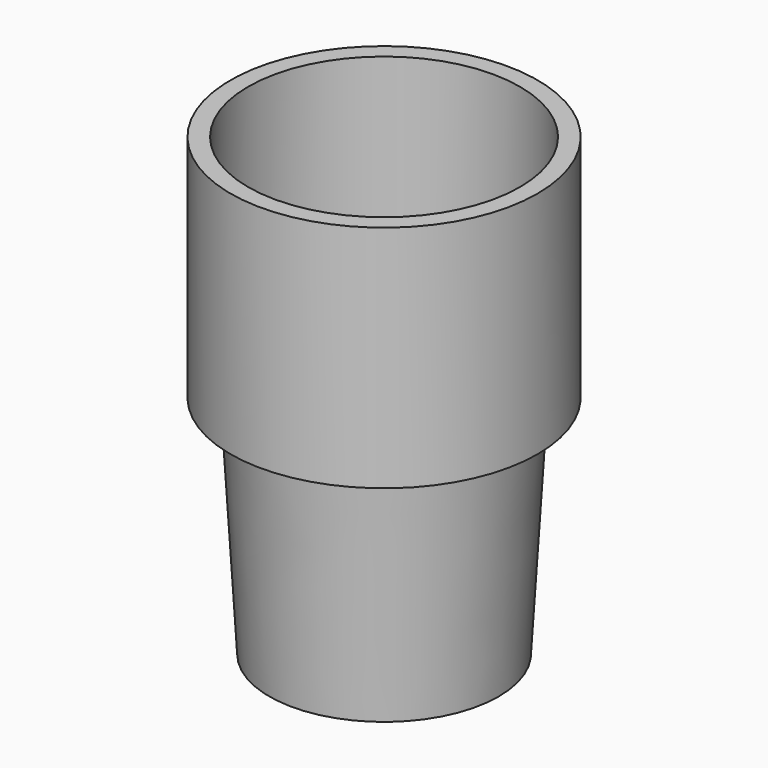
from build123d import *

# Parameters (mm, degrees)
CYLINDER002_R     = 31.5
CYLINDER002_DEPTH = 5
CYLINDER003_R     = 43.5
CYLINDER003_DEPTH = 5
CYLINDER_R        = 38.5
CYLINDER_DEPTH    = 60
CYLINDER001_R     = 43.5
CYLINDER001_DEPTH = 60


with BuildPart() as interior_cono:
    # Cone → Cone (revolve)
    with BuildSketch(Plane.XZ):
        Polygon((0, 0), (27.5, 0), (31.25, 64), (0, 64), align=None)
    revolve(axis=Axis((0, 0, 0), (0, 0, 1)))


with BuildPart() as cono_inferior:
    # Cone001 → Cone001 (revolve)
    with BuildSketch(Plane.XZ):
        Polygon((0, 0), (32.5, 0), (36.25, 64), (0, 64), align=None)
    revolve(axis=Axis((0, 0, 0), (0, 0, 1)))

    # Cut001: cut Interior_cono
    add(interior_cono.part, mode=Mode.SUBTRACT)


with BuildPart() as obj1:
    # Cylinder002 → Cylinder002 (new body)
    with BuildSketch(Plane.XY):
        Circle(CYLINDER002_R)
    extrude(amount=CYLINDER002_DEPTH)


with BuildPart() as obj2:
    # Cylinder003 → Cylinder003 (new body)
    with BuildSketch(Plane.XY):
        Circle(CYLINDER003_R)
    extrude(amount=CYLINDER003_DEPTH)

    # Cut002: cut obj1
    add(obj1.part, mode=Mode.SUBTRACT)


with BuildPart() as obj2_1:
    # Cut002 placement: moved
    add(obj2.part.moved(Location((0, 0, 64))))


with BuildPart() as obj3:
    # Cylinder → Cylinder (new body)
    with BuildSketch(Plane.XY):
        Circle(CYLINDER_R)
    extrude(amount=CYLINDER_DEPTH)


with BuildPart() as parte:
    # Cylinder001 → Cylinder001 (new body)
    with BuildSketch(Plane.XY):
        Circle(CYLINDER001_R)
    extrude(amount=CYLINDER001_DEPTH)

    # Cut: cut obj3
    add(obj3.part, mode=Mode.SUBTRACT)


with BuildPart() as parte_1:
    # Cut placement: moved
    add(parte.part.moved(Location((0, 0, 69))))

    # Fusion: union Cono_inferior, obj2
    add(cono_inferior.part)
    add(obj2_1.part)


solid = parte_1.part
